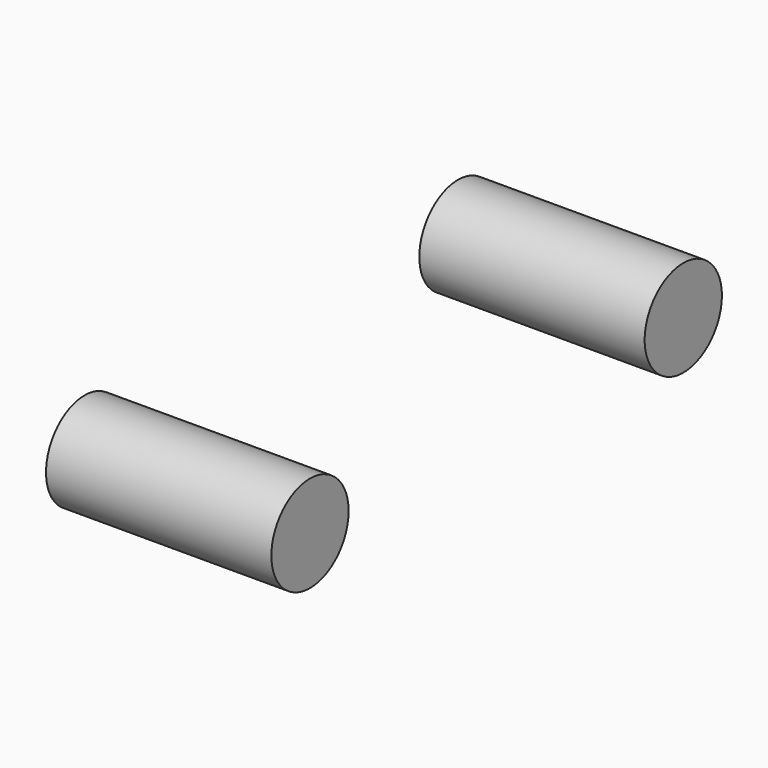
from build123d import *

# Parameters (mm, degrees)
F0_R     = 10.8839
F1_DEPTH = 50.8


with BuildPart() as f1:
    # F0 (on Right) → F1 (new body)
    with BuildSketch(Plane.YZ):
        with Locations((-64.341053, -22.841565)):
            Circle(F0_R)
        with Locations((40.852106, -22.841565)):
            Circle(F0_R)
    extrude(amount=F1_DEPTH)


solid = f1.part
